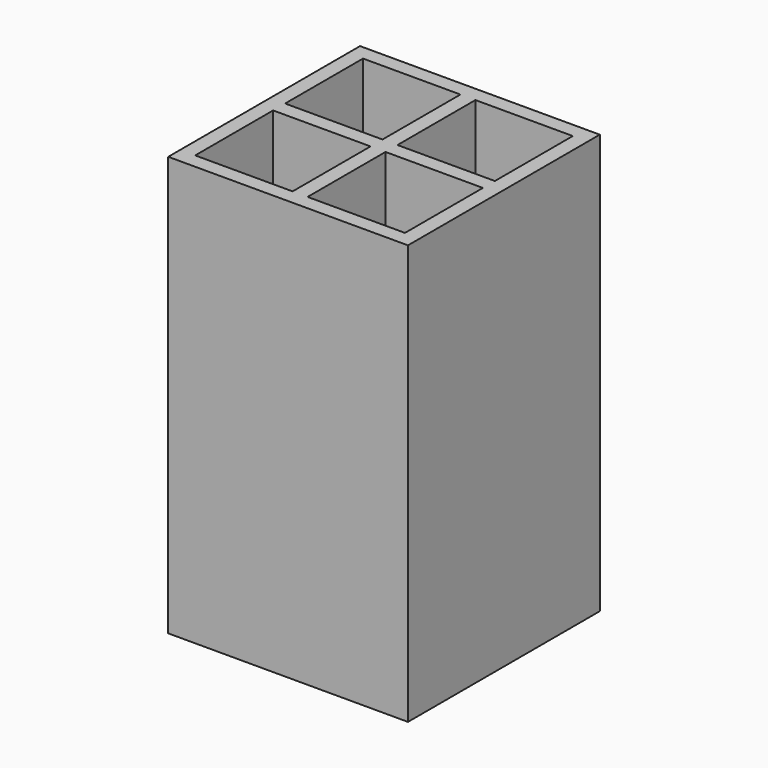
from build123d import *

# Parameters (mm, degrees)
F0_W      = 50.8
F0_H      = 88.9
F1_DEPTH  = 57.15
F2_W      = 20.6375
F2_H      = 20.6375
F3_DEPTH  = 85.725
F4_W      = 20.6375
F4_H      = 20.6375
F5_DEPTH  = 85.725
F6_W      = 20.6375
F6_H      = 20.6375
F7_DEPTH  = 85.725
F8_W      = 20.6375
F8_H      = 20.6375
F9_DEPTH  = 85.725
F10_W     = 50.8
F10_H     = 6.35
F11_DEPTH = 88.9


with BuildPart() as f1:
    # F0 (on Front) → F1 (new body)
    with BuildSketch(Plane.XZ):
        Rectangle(F0_W, F0_H)
    extrude(amount=F1_DEPTH)

    # F2 (on face) → F3 (cut)
    with BuildSketch(Plane.XY.offset(44.45)):
        with Locations((-11.90625, -13.49375)):
            Rectangle(F2_W, F2_H)
    extrude(amount=-F3_DEPTH, mode=Mode.SUBTRACT)

    # F4 (on face) → F5 (cut)
    with BuildSketch(Plane.XY.offset(44.45)):
        with Locations((11.90625, -13.49375)):
            Rectangle(F4_W, F4_H)
    extrude(amount=-F5_DEPTH, mode=Mode.SUBTRACT)

    # F6 (on face) → F7 (cut)
    with BuildSketch(Plane.XY.offset(44.45)):
        with Locations((-11.90625, -37.30625)):
            Rectangle(F6_W, F6_H)
    extrude(amount=-F7_DEPTH, mode=Mode.SUBTRACT)

    # F8 (on face) → F9 (cut)
    with BuildSketch(Plane.XY.offset(44.45)):
        with Locations((11.90625, -37.30625)):
            Rectangle(F8_W, F8_H)
    extrude(amount=-F9_DEPTH, mode=Mode.SUBTRACT)

    # F10 (on face) → F11 (cut)
    with BuildSketch(Plane.XY.offset(44.45)):
        with Locations((0, -53.975)):
            Rectangle(F10_W, F10_H)
    extrude(amount=-F11_DEPTH, mode=Mode.SUBTRACT)


solid = f1.part
